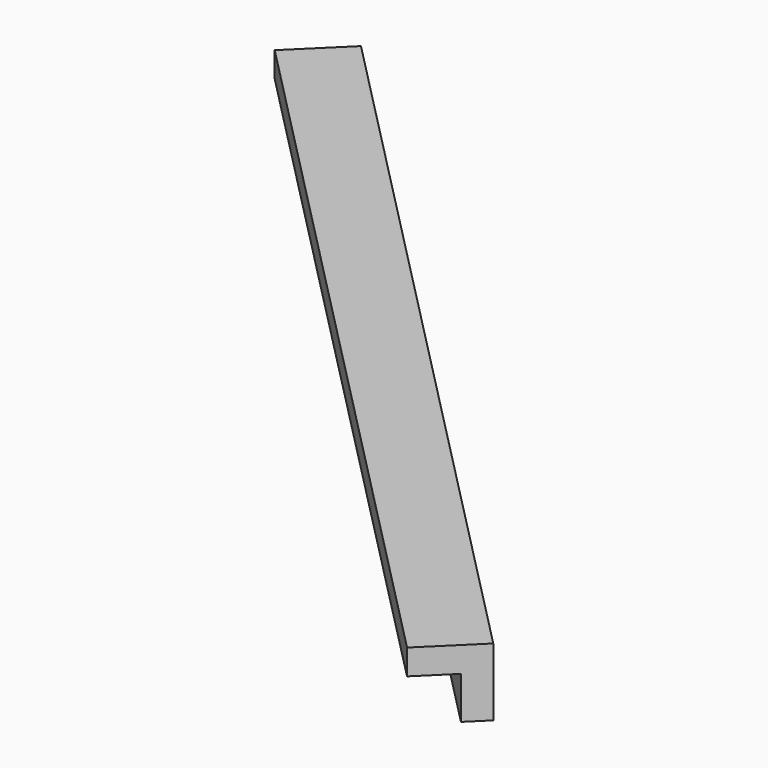
from build123d import *

# Parameters (mm, degrees)
BOX133_W               = 0.8
BOX133_H               = 12
BOX133_DEPTH           = 0.8
BOX134_W               = 0.8
BOX134_H               = 12
BOX134_DEPTH           = 0.8
CUT070_PLACEMENT_ANGLE = 44.5


with BuildPart() as cubo133:
    # Box133 → Box133 (new body)
    with BuildSketch(Plane.XY):
        with Locations((0.4, 6)):
            Rectangle(BOX133_W, BOX133_H)
    extrude(amount=BOX133_DEPTH)


with BuildPart() as obj1:
    # Box134 → Box134 (new body)
    with BuildSketch(Plane(origin=(0.3, 0, 0.3), x_dir=(1, 0, 0), z_dir=(0, 0, 1))):
        with Locations((0.4, 6)):
            Rectangle(BOX134_W, BOX134_H)
    extrude(amount=BOX134_DEPTH)

    # Cut070: cut Cubo133
    add(cubo133.part, mode=Mode.SUBTRACT)


with BuildPart() as obj1_1:
    # Cut070 placement: moved
    add(obj1.part.moved(Location((-155.4, 159.3, -1.45))).rotate(Axis((-155.4, 159.3, -1.45), (0, 0, 1)), CUT070_PLACEMENT_ANGLE))


solid = obj1_1.part
